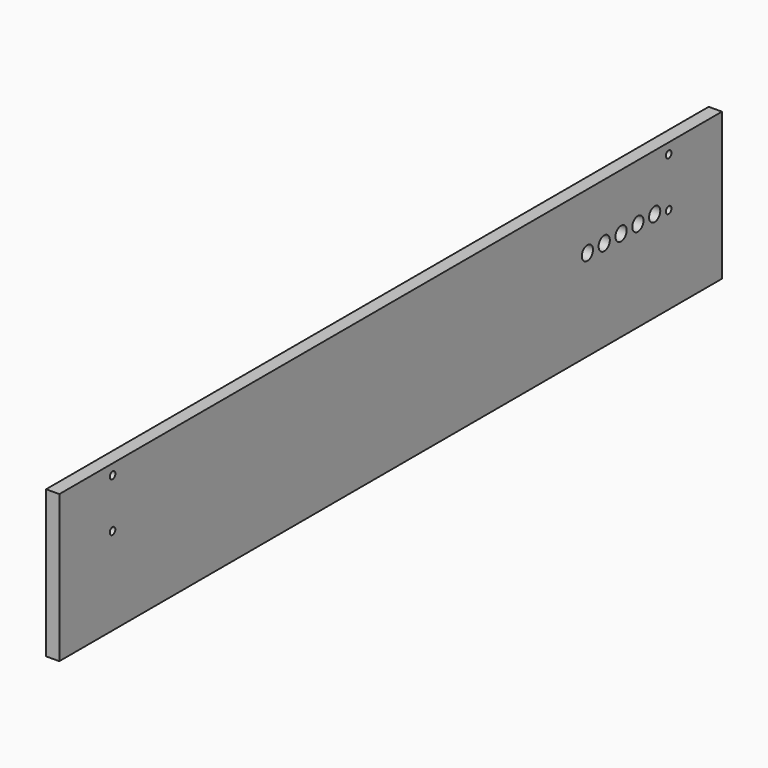
from build123d import *

# Parameters (mm, degrees)
F0_W     = 750.7224
F0_H     = 133.35
F1_DEPTH = 5.9944
F2_R     = 6.35
F3_DEPTH = 11.9888
F4_R     = 3.175
F5_DEPTH = 11.9888


with BuildPart() as f1:
    # F0 (on Right) → F1 (new body, symmetric)
    with BuildSketch(Plane.YZ):
        Rectangle(F0_W, F0_H)
    extrude(amount=F1_DEPTH, both=True)

    # F2 (on face) → F3 (cut, through all)
    with BuildSketch(Plane.YZ.offset(5.9944)):
        with Locations((222.9612, 15.875)):
            Circle(F2_R)
        with Locations((242.0112, 15.875)):
            Circle(F2_R)
        with Locations((261.0612, 15.875)):
            Circle(F2_R)
        with Locations((280.1112, 15.875)):
            Circle(F2_R)
        with Locations((299.1612, 15.875)):
            Circle(F2_R)
    extrude(amount=-F3_DEPTH, mode=Mode.SUBTRACT)

    # F4 (on face) → F5 (cut, through all)
    with BuildSketch(Plane.YZ.offset(5.9944)):
        with Locations((-315.0362, 57.15)):
            Circle(F4_R)
        with Locations((-315.0362, 12.7)):
            Circle(F4_R)
        with Locations((315.0362, 12.7)):
            Circle(F4_R)
        with Locations((315.0362, 57.15)):
            Circle(F4_R)
    extrude(amount=-F5_DEPTH, mode=Mode.SUBTRACT)


solid = f1.part
